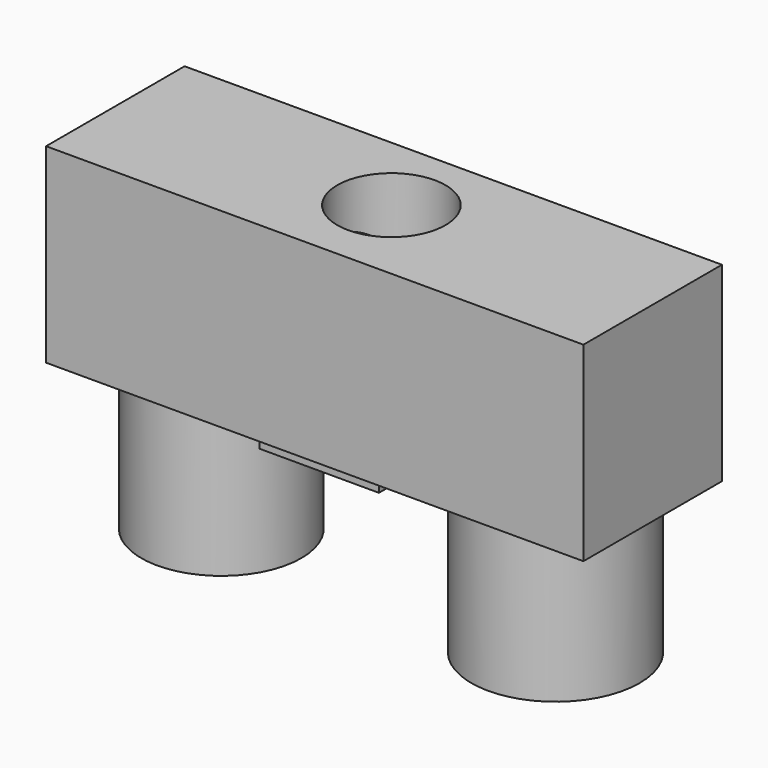
from build123d import *

# Parameters (mm, degrees)
F0_R      = 9.3861787979
F1_DEPTH  = 17.526
F0_R_2    = 9.8633855672
F2_W      = 59.9626451731
F2_H      = 20.3023133799
F3_DEPTH  = 21.59
F5_D      = 12.7
F7_D      = 12.7
F7_2_D    = 12.7
F7_3_D    = 12.7
F8_W      = 59.9626451731
F8_H      = 20.3023133799
F9_DEPTH  = 0.762
F10_W     = 20.3023133799
F10_H     = 22.352
F11_DEPTH = 1.27
F12_W     = 20.3023133799
F12_H     = 22.352
F14_DEPTH = 1.778
F15_D     = 12.7
F16_W     = 14.0207996592
F16_H     = 18.8975995407
F17_DEPTH = 1.016


with BuildPart() as f1:
    # F0 (on Top) → F1 (new body)
    with BuildSketch(Plane.XY):
        with Locations((-19.9468769133, 0)):
            Circle(F0_R)
    extrude(amount=F1_DEPTH)

    # F7 (through all)
    with Locations(Plane(origin=(0, 0, 0), x_dir=(1, 0, 0), z_dir=(0, 0, -1))):
        with Locations((-19.9468769133, 0), (19.1245861351, 0)):
            Hole(F7_D / 2)


with BuildPart() as f1b:
    # F0 (on Top) → F1, piece 2 (new body)
    with BuildSketch(Plane.XY):
        with Locations((19.2413087934, 0)):
            Circle(F0_R_2)
    extrude(amount=F1_DEPTH)

    # F7#2 (through all)
    with Locations(Plane(origin=(0, 0, 0), x_dir=(1, 0, 0), z_dir=(0, 0, -1))):
        with Locations((-19.9468769133, 0), (19.1245861351, 0)):
            Hole(F7_2_D / 2)


with BuildPart() as f3:
    # F2 (on face) → F3 (new body)
    with BuildSketch(Plane.XY.offset(17.526)):
        with Locations((-0.2360772341, -0.472149346)):
            Rectangle(F2_W, F2_H)
    extrude(amount=F3_DEPTH)

    # F5 (through all)
    with Locations(Plane.YZ.offset(29.7452453524)):
        with Locations((0, 28.321)):
            Hole(F5_D / 2)

    # F7#3 (through all)
    with Locations(Plane(origin=(0, 0, 0), x_dir=(1, 0, 0), z_dir=(0, 0, -1))):
        with Locations((-19.9468769133, 0), (19.1245861351, 0)):
            Hole(F7_3_D / 2)

    # F8 (on face) → F9 (join)
    with BuildSketch(Plane.XY.offset(39.116)):
        with Locations((-0.2360772341, -0.472149346)):
            Rectangle(F8_W, F8_H)
    extrude(amount=F9_DEPTH)

    # F10 (on face) → F11 (join)
    with BuildSketch(Plane.YZ.offset(29.7452453524)):
        with Locations((-0.472149346, 28.702)):
            Rectangle(F10_W, F10_H)
    extrude(amount=F11_DEPTH)

    # F12 (on face) → F14 (join)
    with BuildSketch(Plane(origin=(-30.2173998207, 0, 0), x_dir=(0, -1, 0), z_dir=(-1, 0, 0))):
        with Locations((0.472149346, 28.702)):
            Rectangle(F12_W, F12_H)
    extrude(amount=F14_DEPTH)

    # F15 (through all)
    with Locations(Plane.XY.offset(39.878)):
        with Locations((0, 0)):
            Hole(F15_D / 2)

    # F16 (on face) → F17 (join)
    with BuildSketch(Plane.XY.offset(17.526)):
        with Locations((-0.3047995269, -0.7620002143)):
            Rectangle(F16_W, F16_H)
    extrude(amount=-F17_DEPTH)


solid = Compound([f1.part, f1b.part, f3.part])
